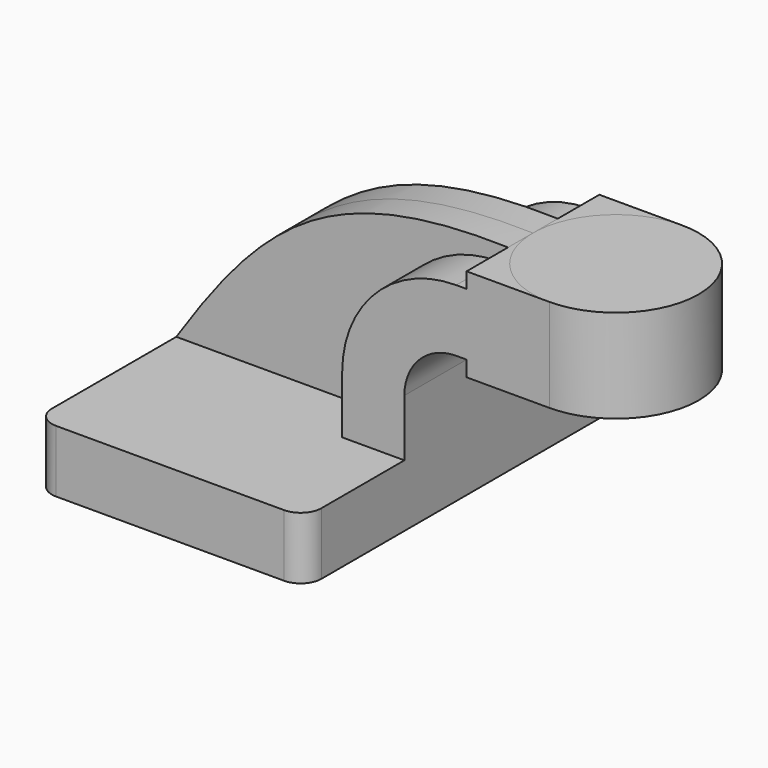
from build123d import *

# Parameters (mm, degrees)
F1_DEPTH = 63.5
F0_W     = 25.4
F0_H     = 4.7498
F2_DEPTH = 25.4
F3_DEPTH = 9.525
F5_R     = 6.35


with BuildPart() as f1:
    # F0 (on Front) → F1 (new body, symmetric)
    with BuildSketch(Plane.XZ):
        Polygon((-41.275, 4.048595), (41.275, 4.048595), (41.275, 23.098595), (22.225, 23.098595), (-41.275, 23.098595), align=None)
    extrude(amount=F1_DEPTH, both=True)

    # F0 (on Front) → F2 (join, symmetric)
    with BuildSketch(Plane.XZ):
        Polygon((85.725, 75.498795), (60.325, 75.498795), (60.325, 56.448795), (60.325, 51.673595), (85.725, 51.673595), align=None)
        with BuildLine():
            Line((22.225, 23.098595), (41.275, 23.098595))
            Line((41.275, 23.098595), (41.275, 40.573795))
            ThreePointArc((41.275, 40.573795), (45.92468, 51.799115), (57.15, 56.448795))
            Line((57.15, 56.448795), (60.325, 56.448795))
            Line((60.325, 56.448795), (60.325, 75.498795))
            Line((60.325, 75.498795), (57.15, 75.498795))
            ThreePointArc((57.15, 75.498795), (32.454296, 65.269499), (22.225, 40.573795))
            Line((22.225, 40.573795), (22.225, 23.098595))
        make_face()
        with Locations((73.025, 77.873695)):
            Rectangle(F0_W, F0_H)
    extrude(amount=F2_DEPTH, both=True)

    # F0 (on Front) → F3 (join, symmetric)
    with BuildSketch(Plane.XZ):
        with BuildLine():
            add(Edge.make_bspline(
                [(-41.275, 23.098595), (-14.773102, 62.980063), (5.753732, 81.640825), (60.325, 80.248595)],
                knots=[0, 0, 0, 0, 116.570504, 116.570504, 116.570504, 116.570504], degree=3))
            Line((-41.275, 23.098595), (22.225, 23.098595))
            Line((22.225, 23.098595), (22.225, 40.573795))
            ThreePointArc((22.225, 40.573795), (32.454296, 65.269499), (57.15, 75.498795))
            Line((57.15, 75.498795), (60.325, 75.498795))
            Line((60.325, 75.498795), (60.325, 80.248595))
        make_face()
    extrude(amount=F3_DEPTH, both=True)

    # F5
    f5_edges = [f1.edges().sort_by_distance(p)[0] for p in [
        (41.275, 63.5, 13.573595),
        (-41.275, 63.5, 13.573595),
        (41.275, -63.5, 13.573595),
        (-41.275, -63.5, 13.573595),
    ]]
    fillet(f5_edges, radius=F5_R)


with BuildPart() as f4:
    # F0 (on Front) → F4 (revolve)
    with BuildSketch(Plane.XZ):
        Polygon((111.125, 80.248595), (85.725, 80.248595), (85.725, 75.498795), (85.725, 51.673595), (111.125, 51.673595), align=None)
    revolve(axis=Axis((85.725, 0, 65.961095), (0, 0, -1)))


solid = Compound([f1.part, f4.part])
